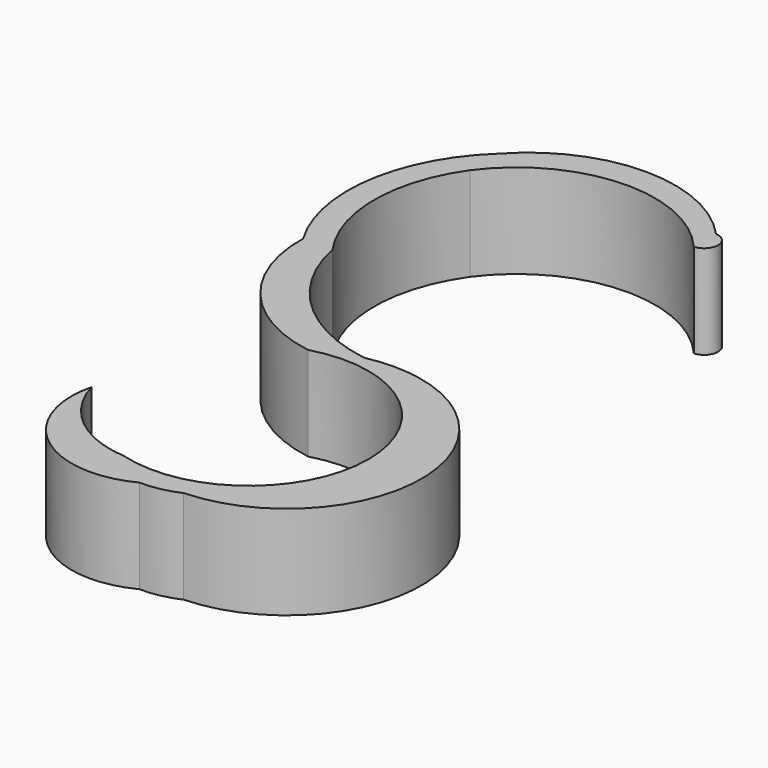
from build123d import *

# Parameters (mm, degrees)
F1_DEPTH = 12.7


with BuildPart() as f1:
    # F0 (on Top) → F1 (new body)
    with BuildSketch(Plane.XY):
        with BuildLine():
            ThreePointArc((6.969989, -33.608161), (3.356066, -32.709161), (0, -31.095017))
            ThreePointArc((0, -31.095017), (-7.898027, -28.011691), (-12.548544, -20.922374))
            ThreePointArc((-12.548544, -20.922374), (-8.221346, -33.529552), (5.044016, -34.831756))
            ThreePointArc((5.044016, -34.831756), (6.035373, -34.264614), (6.969989, -33.608161))
        make_face()
        with BuildLine():
            ThreePointArc((0, 0), (20.620834, -15.547508), (0, -31.095017))
            ThreePointArc((0, -31.095017), (3.356066, -32.709161), (6.969989, -33.608161))
            ThreePointArc((6.969989, -33.608161), (8.584093, -33.765391), (10.205782, -33.778654))
            ThreePointArc((10.205782, -33.778654), (27.738488, -16.878906), (12.85268, 2.393092))
            ThreePointArc((12.85268, 2.393092), (9.320558, 2.059582), (5.78111, 2.303358))
            ThreePointArc((5.78111, 2.303358), (2.791616, 1.400004), (0, 0))
        make_face()
        with BuildLine():
            ThreePointArc((-16.308, 19.54706), (-11.822589, 6.712847), (0, 0))
            ThreePointArc((0, 0), (2.791616, 1.400004), (5.78111, 2.303358))
            ThreePointArc((5.78111, 2.303358), (-5.99092, 8.071132), (-12.327401, 19.54706))
            ThreePointArc((-12.327401, 19.54706), (-15.987157, 31.157143), (-12.327401, 42.767227))
            ThreePointArc((-12.327401, 42.767227), (2.110379, 50.457564), (17.084811, 43.872949))
            ThreePointArc((17.084811, 43.872949), (18.857216, 45.752674), (17.084811, 47.6324))
            ThreePointArc((17.084811, 47.6324), (2.378705, 54.134652), (-12.327401, 47.6324))
            ThreePointArc((-12.327401, 47.6324), (-19.279128, 34.292925), (-16.308, 19.54706))
        make_face()
        with BuildLine():
            ThreePointArc((10.205782, -33.778654), (8.584093, -33.765391), (6.969989, -33.608161))
            ThreePointArc((6.969989, -33.608161), (6.035373, -34.264614), (5.044016, -34.831756))
            ThreePointArc((5.044016, -34.831756), (7.683397, -34.591928), (10.205782, -33.778654))
        make_face()
        with BuildLine():
            ThreePointArc((12.85268, 2.393092), (9.312505, 2.694176), (5.78111, 2.303358))
            ThreePointArc((5.78111, 2.303358), (9.320558, 2.059582), (12.85268, 2.393092))
        make_face()
    extrude(amount=F1_DEPTH)


solid = f1.part
